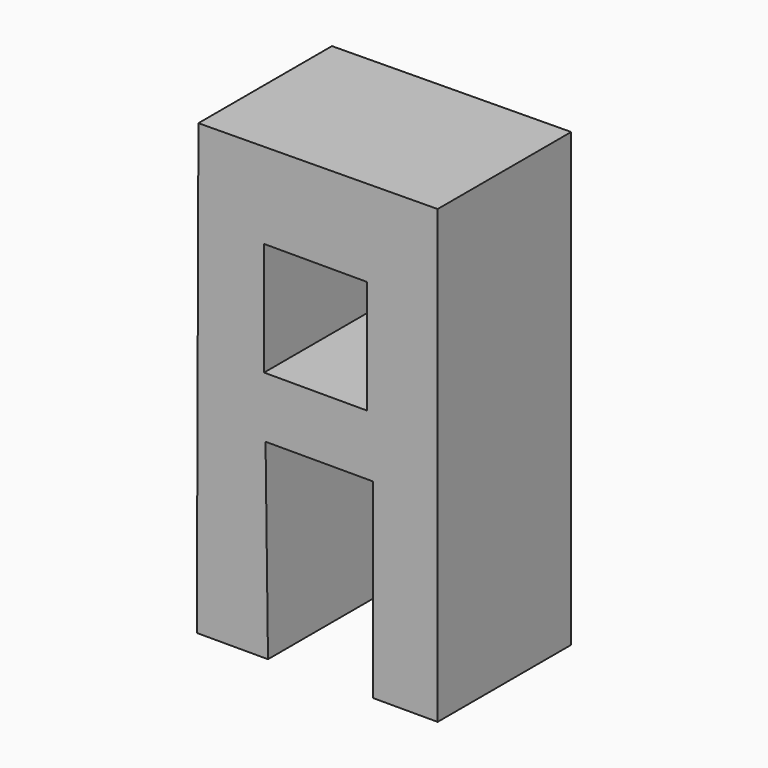
from build123d import *

# Parameters (mm, degrees)
F1_DEPTH = 42.418
F2_W     = 26.176628
F2_H     = 28.782386
F3_DEPTH = 108.966


with BuildPart() as f1:
    # F0 (on Front) → F1 (new body)
    with BuildSketch(Plane.XZ):
        Polygon((-32.652762, 50.93069), (-93.452446, 50.371993), (-93.857206, -63.817397), (-75.767848, -63.817397), (-76.391129, -15.351797), (-49.027815, -15.351797), (-49.027815, -63.817397), (-32.652762, -63.817397), align=None)
    extrude(amount=F1_DEPTH)

    # F2 (on face) → F3 (cut)
    with BuildSketch(Plane.XZ.offset(42.418)):
        with Locations((-63.673811, 14.391193)):
            Rectangle(F2_W, F2_H)
    extrude(amount=-F3_DEPTH, mode=Mode.SUBTRACT)


solid = f1.part
